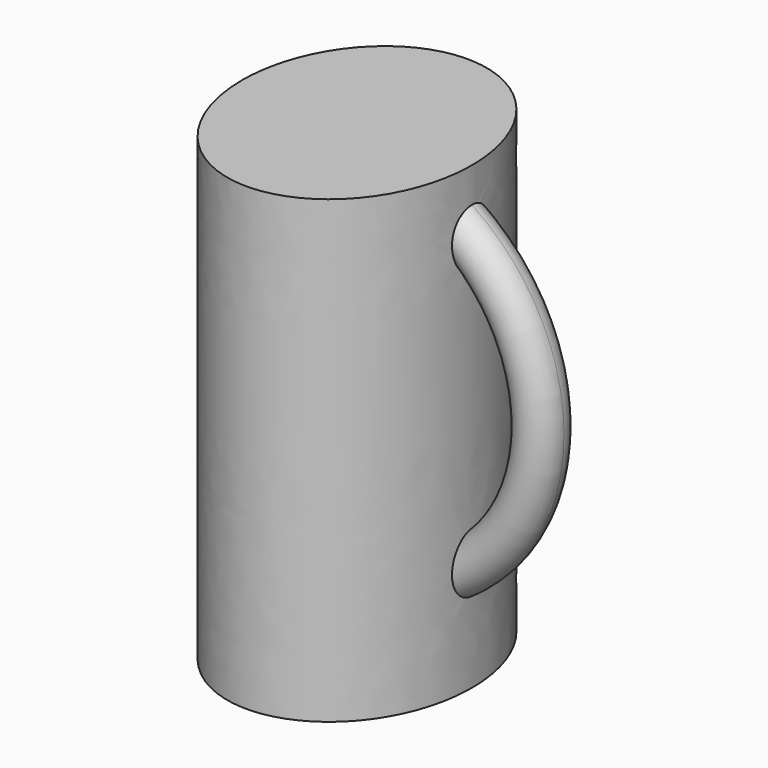
from build123d import *

# Parameters (mm, degrees)
F1_DEPTH = 500
F3_ANGLE = 180


with BuildPart() as f1:
    # F0 (on Top) → F1 (new body)
    with BuildSketch(Plane.XY):
        with BuildLine():
            add(Edge.make_bspline(
                [(0, 150), (-125, 150), (-125, 0)],
                knots=[0, 0, 0, 1.5707963268, 1.5707963268, 1.5707963268], degree=2, weights=[1, 0.7071067812, 1]))
            Line((-125, 0), (125, 0))
            add(Edge.make_bspline(
                [(125, 0), (125, 150), (0, 150)],
                knots=[4.7123889804, 4.7123889804, 4.7123889804, 6.2831853072, 6.2831853072, 6.2831853072], degree=2, weights=[1, 0.7071067812, 1]))
        make_face()
        with BuildLine():
            Line((125, 0), (-125, 0))
            add(Edge.make_bspline(
                [(-125, 0), (-125, -150), (0, -150), (125, -150), (125, 0)],
                knots=[1.5707963268, 1.5707963268, 1.5707963268, 3.1415926536, 3.1415926536, 4.7123889804, 4.7123889804, 4.7123889804], degree=2, weights=[1, 0.7071067812, 1, 0.7071067812, 1]))
        make_face()
    extrude(amount=F1_DEPTH)

    # F2 (on Right) → F3 (revolve)
    with BuildSketch(Plane.YZ):
        with BuildLine():
            ThreePointArc((0, 100), (-25, 75), (0, 50))
            Line((0, 50), (0, 75))
            Line((0, 75), (0, 100))
        make_face()
        with BuildLine():
            Line((0, 75), (0, 50))
            ThreePointArc((0, 50), (17.6776695297, 57.3223304703), (25, 75))
            ThreePointArc((25, 75), (17.6776695297, 92.6776695297), (0, 100))
            Line((0, 100), (0, 75))
        make_face()
    revolve(axis=Axis((0, -40.1853621006, 275), (0, -1, 0)), revolution_arc=F3_ANGLE)


solid = f1.part
